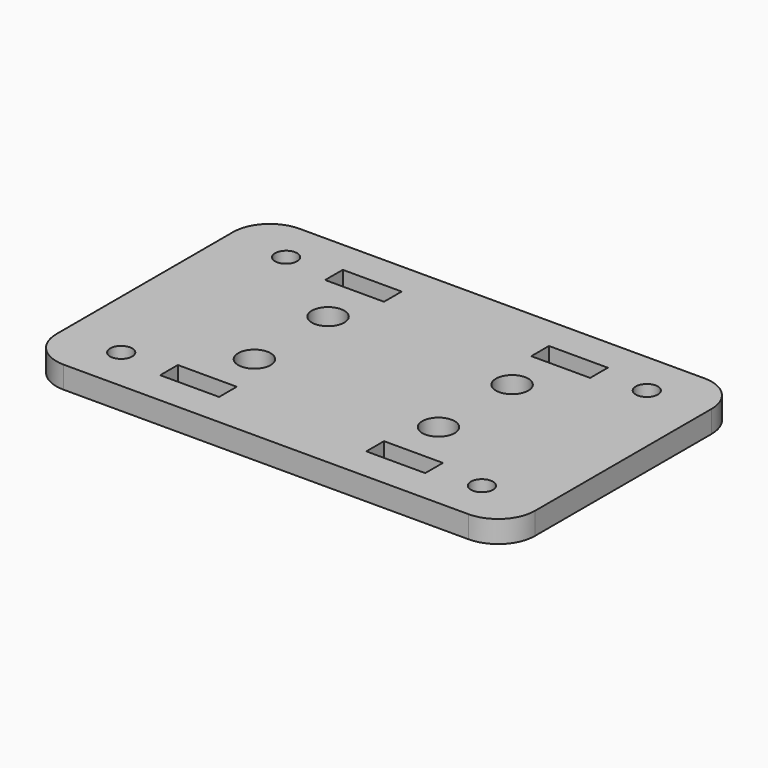
from build123d import *

# Parameters (mm, degrees)
F1_W     = 65
F1_H     = 40
F1_R     = 1.5
F1_W_2   = 8
F1_H_2   = 3
F2_DEPTH = 3
F3_R     = 5
F5_D     = 4.4


with BuildPart() as f2:
    # F1 (on Top) → F2 (new body)
    with BuildSketch(Plane.XY):
        Rectangle(F1_W, F1_H)
        with Locations((-24.5, -14)):
            Circle(F1_R, mode=Mode.SUBTRACT)
        with Locations((-14, -14)):
            Rectangle(F1_W_2, F1_H_2, mode=Mode.SUBTRACT)
        with Locations((14, -14)):
            Rectangle(F1_W_2, F1_H_2, mode=Mode.SUBTRACT)
        with Locations((24.5, -14)):
            Circle(F1_R, mode=Mode.SUBTRACT)
        with Locations((-24.5, 14)):
            Circle(F1_R, mode=Mode.SUBTRACT)
        with Locations((-14, 14)):
            Rectangle(F1_W_2, F1_H_2, mode=Mode.SUBTRACT)
        with Locations((14, 14)):
            Rectangle(F1_W_2, F1_H_2, mode=Mode.SUBTRACT)
        with Locations((24.5, 14)):
            Circle(F1_R, mode=Mode.SUBTRACT)
    extrude(amount=F2_DEPTH)

    # F3
    f3_edges = [f2.edges().sort_by_distance(p)[0] for p in [
        (-32.5, -20, 1.5),
        (-32.5, 20, 1.5),
        (32.5, -20, 1.5),
        (32.5, 20, 1.5),
    ]]
    fillet(f3_edges, radius=F3_R)

    # F5 (through all)
    with Locations(Plane.XY.offset(3)):
        with Locations((-12.5, 6.125), (-12.5, -6.375), (12.5, 6.125), (12.5, -6.375)):
            Hole(F5_D / 2)


solid = f2.part
